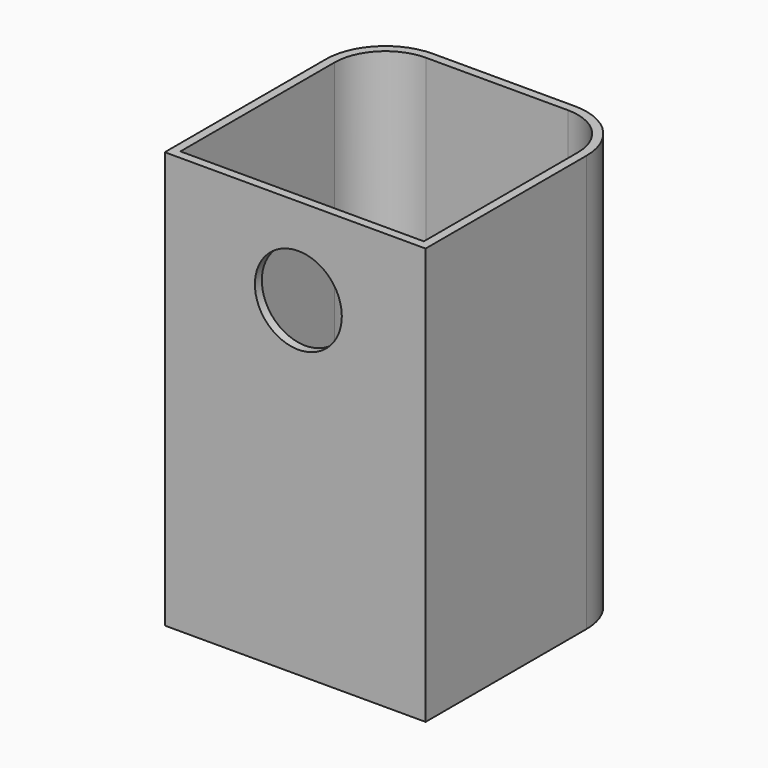
from build123d import *

# Parameters (mm, degrees)
F1_DEPTH = 119.822524
F2_R     = 34.250378
F3_T     = -5
F4_R     = 25
F5_DEPTH = 25


with BuildPart() as f1:
    # F0 (on Top) → F1 (new body, symmetric)
    with BuildSketch(Plane.XY):
        Polygon((-76.817763, -68.995313), (73.182237, -68.995313), (73.182237, 81.004687), (-1.817763, 81.004687), (-76.817763, 81.004687), align=None)
    extrude(amount=F1_DEPTH, both=True)

    # F2
    f2_edges = [f1.edges().sort_by_distance(p)[0] for p in [
        (73.182237, 81.004687, 0),
        (-76.817763, 81.004687, 0),
    ]]
    fillet(f2_edges, radius=F2_R)

    # F3
    f3_openings = [f1.faces().sort_by_distance(p)[0] for p in [
        (-1.817763, 4.463075, 119.822524),
    ]]
    offset(amount=F3_T, openings=f3_openings)

    # F4 (on face) → F5 (cut)
    with BuildSketch(Plane.XZ.offset(68.995313)):
        with Locations((0, 69.822524)):
            Circle(F4_R)
    extrude(amount=-F5_DEPTH, mode=Mode.SUBTRACT)


solid = f1.part
